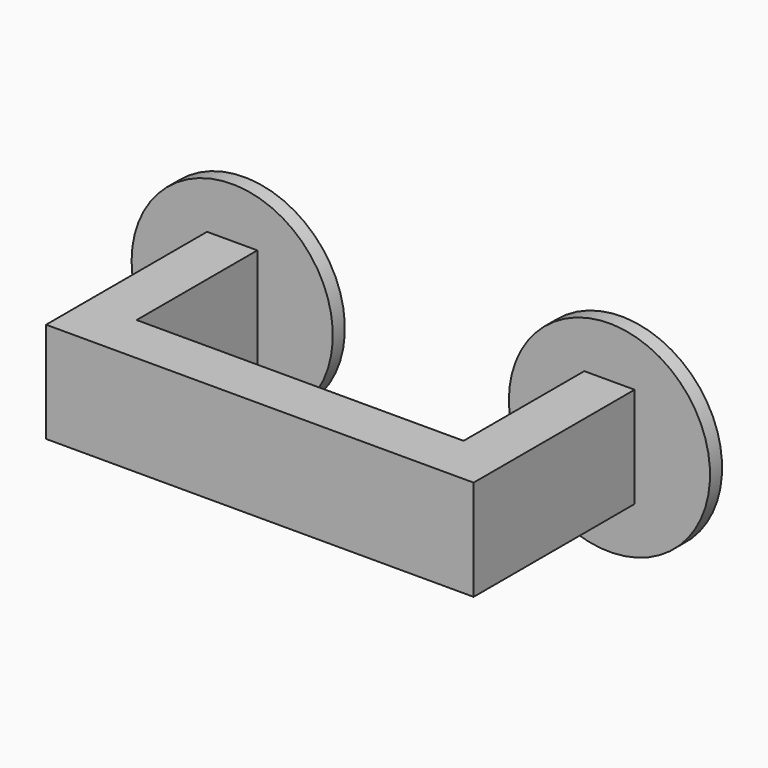
from build123d import *

# Parameters (mm, degrees)
F1_DEPTH       = 12.7
F3_R           = 25.4
F3_W           = 12.7
F3_H           = 25.4
F2_R           = 25.4
F2_W           = 12.7
F2_H           = 25.4
F4_DEPTH       = 3.81
F6_D           = 2.7051
F6_DEPTH       = 15.08125
F6_CSINK_D     = 7.7978
F6_CSINK_ANGLE = 82
F6_TIP         = 0.8126940303
F8_D           = 2.7051
F8_DEPTH       = 15.0876
F8_CSINK_D     = 7.7978
F8_CSINK_ANGLE = 82
F8_TIP         = 0.8126940303


with BuildPart() as f1:
    # F0 (on Top) → F1 (new body, symmetric)
    with BuildSketch(Plane.XY):
        Polygon((41.275, 0), (-41.275, 0), (-41.275, 38.1), (-53.975, 38.1), (-53.975, -12.7), (53.975, -12.7), (53.975, 38.1), (41.275, 38.1), align=None)
    extrude(amount=F1_DEPTH, both=True)

    # F3 (on face) + F2 (on face) → F4 (join)
    with BuildSketch(Plane(origin=(0, 38.1, 0), x_dir=(-1, 0, 0), z_dir=(0, 1, 0))):
        with Locations((47.625, 0)):
            Circle(F3_R)
        with Locations((47.625, 0)):
            Rectangle(F3_W, F3_H, mode=Mode.SUBTRACT)
        with Locations((47.625, 0)):
            Rectangle(F3_W, F3_H)
    with BuildSketch(Plane(origin=(0, 38.1, 0), x_dir=(-1, 0, 0), z_dir=(0, 1, 0))):
        with Locations((-47.625, 0)):
            Circle(F2_R)
        with Locations((-47.625, 0)):
            Rectangle(F2_W, F2_H, mode=Mode.SUBTRACT)
        with Locations((-47.625, 0)):
            Rectangle(F2_W, F2_H)
    extrude(amount=F4_DEPTH)

    # F6
    with Locations(Plane(origin=(0, 41.91, 0), x_dir=(-1, 0, 0), z_dir=(0, 1, 0))):
        with Locations((-47.625, 0)):
            CounterSinkHole(F6_D / 2, F6_CSINK_D / 2, depth=F6_DEPTH, counter_sink_angle=F6_CSINK_ANGLE)
            with Locations((0, 0, -(F6_DEPTH + F6_TIP / 2))):  # 118° drill point
                Cone(0, F6_D / 2, F6_TIP, mode=Mode.SUBTRACT)

    # F8
    with Locations(Plane(origin=(0, 41.91, 0), x_dir=(-1, 0, 0), z_dir=(0, 1, 0))):
        with Locations((47.625, 0)):
            CounterSinkHole(F8_D / 2, F8_CSINK_D / 2, depth=F8_DEPTH, counter_sink_angle=F8_CSINK_ANGLE)
            with Locations((0, 0, -(F8_DEPTH + F8_TIP / 2))):  # 118° drill point
                Cone(0, F8_D / 2, F8_TIP, mode=Mode.SUBTRACT)


solid = f1.part
